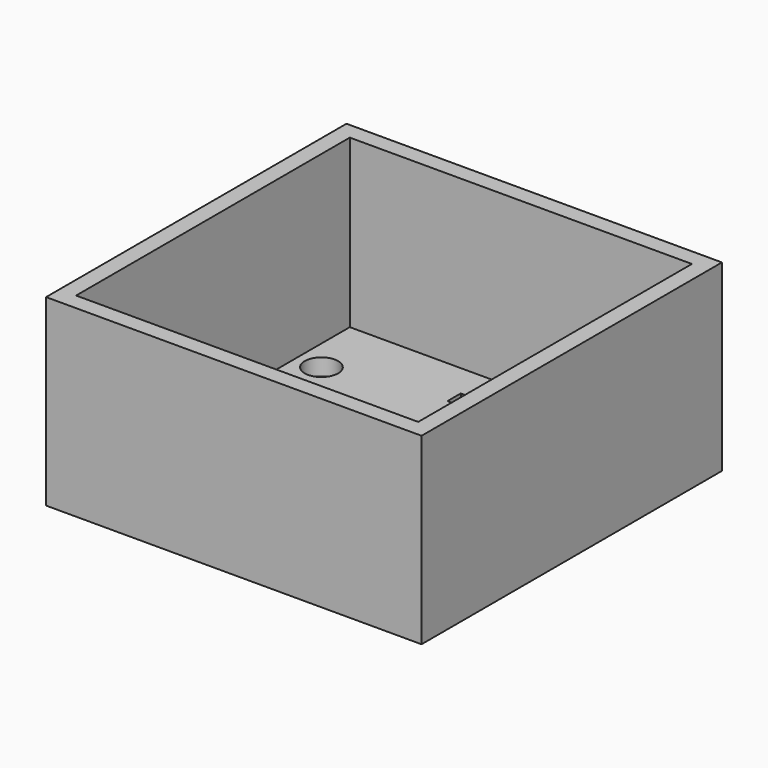
from build123d import *

# Parameters (mm, degrees)
F0_W     = 45
F0_H     = 45
F1_DEPTH = 2
F2_W     = 45
F2_H     = 45
F2_W_2   = 41
F2_H_2   = 41
F3_DEPTH = 20
F4_W     = 8
F4_H     = 2
F5_DEPTH = 2
F6_R     = 2
F7_DEPTH = 25


with BuildPart() as f1:
    # F0 (on Top) → F1 (new body)
    with BuildSketch(Plane.XY):
        with Locations((-42.720676, -16.595085)):
            Rectangle(F0_W, F0_H)
    extrude(amount=F1_DEPTH)

    # F2 (on face) → F3 (join)
    with BuildSketch(Plane.XY.offset(2)):
        with Locations((-42.720676, -16.595085)):
            Rectangle(F2_W, F2_H)
        with Locations((-42.720676, -16.595085)):
            Rectangle(F2_W_2, F2_H_2, mode=Mode.SUBTRACT)
    extrude(amount=F3_DEPTH)

    # F4 (on face) → F5 (cut, through all)
    with BuildSketch(Plane(origin=(0, 0, 0), x_dir=(1, 0, 0), z_dir=(0, 0, -1))):
        with Locations((-42.720676, 1.095085)):
            Rectangle(F4_W, F4_H)
    extrude(amount=-F5_DEPTH, mode=Mode.SUBTRACT)

    # F6 (on face) → F7 (cut)
    with BuildSketch(Plane(origin=(0, 0, 0), x_dir=(1, 0, 0), z_dir=(0, 0, -1))):
        with Locations((-25.220676, 4.095085)):
            Circle(F6_R)
        with Locations((-60.220676, 4.095085)):
            Circle(F6_R)
    extrude(amount=-F7_DEPTH, mode=Mode.SUBTRACT)


solid = f1.part
